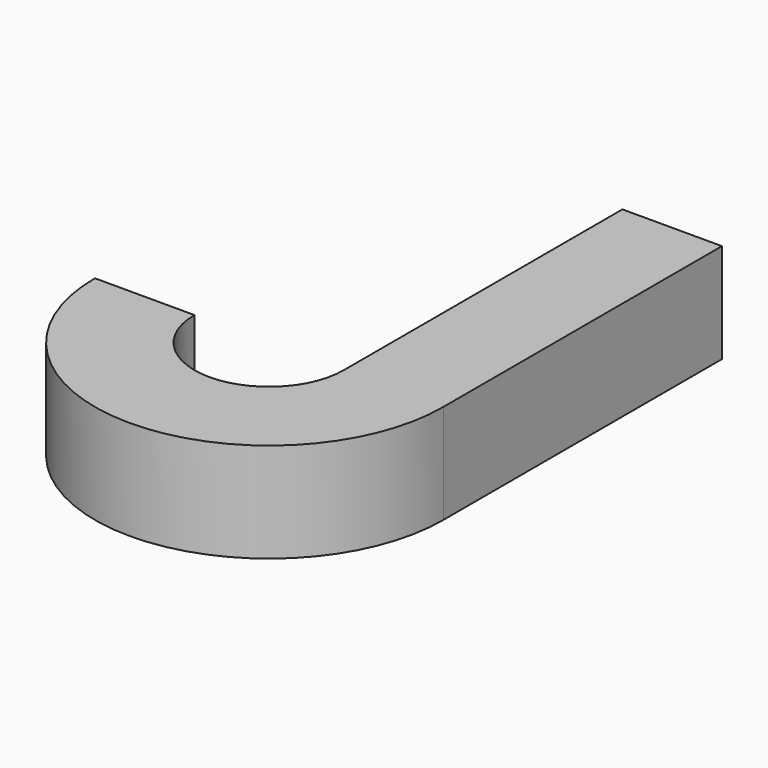
from build123d import *

# Parameters (mm, degrees)
F0_W     = 12.7
F0_H     = 44.45
F1_DEPTH = 12.7


with BuildPart() as f1:
    # F0 (on Top) → F1 (new body)
    with BuildSketch(Plane.XY):
        Rectangle(F0_W, F0_H)
        with BuildLine():
            Line((6.35, -22.225), (-6.35, -22.225))
            ThreePointArc((-6.35, -22.225), (-15.875, -31.75), (-25.4, -22.225))
            Line((-25.4, -22.225), (-38.1, -22.225))
            ThreePointArc((-38.1, -22.225), (-15.875, -44.45), (6.35, -22.225))
        make_face()
    extrude(amount=F1_DEPTH)


solid = f1.part
